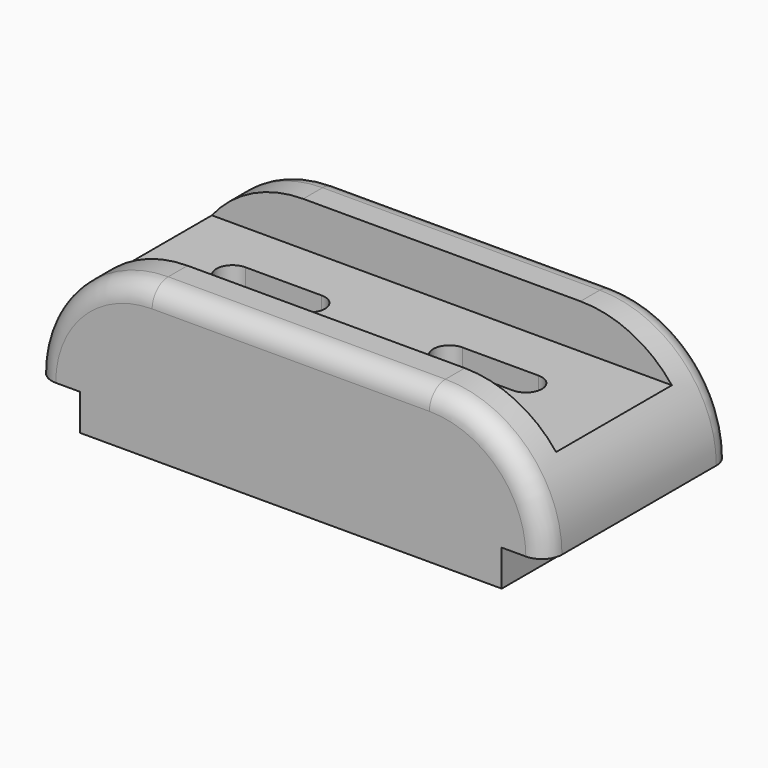
from build123d import *

# Parameters (mm, degrees)
F0_W     = 127
F0_H     = 38
F1_DEPTH = 58
F2_R     = 29
F3_W     = 36
F3_H     = 11
F4_DEPTH = 127.001
F5_W     = 11
F5_H     = 9
F6_DEPTH = 58.001
F7_R     = 5
F9_DEPTH = 27.001


with BuildPart() as f1:
    # F0 (on Front) → F1 (new body)
    with BuildSketch(Plane.XZ):
        with Locations((63.5, 19)):
            Rectangle(F0_W, F0_H)
    extrude(amount=F1_DEPTH)

    # F2
    f2_edges = [f1.edges().sort_by_distance(p)[0] for p in [
        (127, -29, 38),
        (0, -29, 38),
    ]]
    fillet(f2_edges, radius=F2_R)

    # F3 (on Right) → F4 (cut, through all)
    with BuildSketch(Plane.YZ):
        with Locations((-29, 32.5)):
            Rectangle(F3_W, F3_H)
    extrude(amount=F4_DEPTH, mode=Mode.SUBTRACT)

    # F5 (on face) → F6 (cut, through all)
    with BuildSketch(Plane.XZ.offset(58)):
        with Locations((5.5, 4.5)):
            Rectangle(F5_W, F5_H)
        with Locations((121.5, 4.5)):
            Rectangle(F5_W, F5_H)
    extrude(amount=-F6_DEPTH, mode=Mode.SUBTRACT)

    # F7
    f7_edges = [f1.edges().sort_by_distance(p)[0] for p in [
        (63.5, -58, 38),
        (8.493903, 0, 29.506097),
    ]]
    fillet(f7_edges, radius=F7_R)

    # F8 (on face) → F9 (cut, through all)
    with BuildSketch(Plane.XY.offset(27)):
        with BuildLine():
            Line((44, -24), (25, -24))
            ThreePointArc((25, -24), (21, -28), (25, -32))
            Line((25, -32), (44, -32))
            ThreePointArc((44, -32), (48, -28), (44, -24))
        make_face()
        with BuildLine():
            Line((98, -24), (79, -24))
            ThreePointArc((79, -24), (75, -28), (79, -32))
            Line((79, -32), (98, -32))
            ThreePointArc((98, -32), (102, -28), (98, -24))
        make_face()
    extrude(amount=-F9_DEPTH, mode=Mode.SUBTRACT)


solid = f1.part
